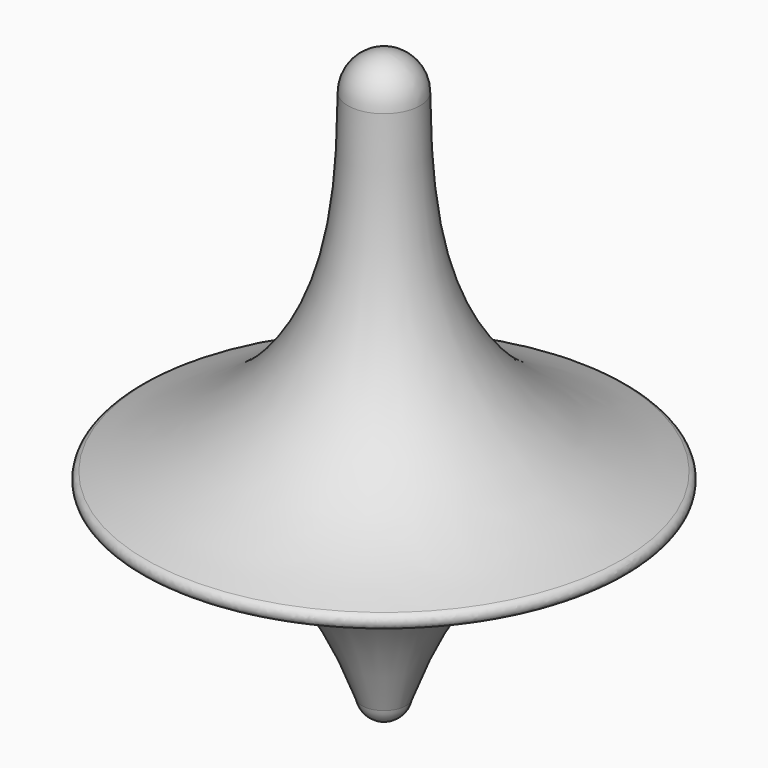
from build123d import *

# Parameters (mm, degrees)
F2_R = 0.635


with BuildPart() as f1:
    # F0 (on Front) → F1 (revolve)
    with BuildSketch(Plane.XZ):
        with BuildLine():
            add(Edge.make_bspline(
                [(3.1117998296, 29.7843702137), (3.17367465, 24.1463146015), (3.7584596413, 11.2580953634), (13.9445057139, 2.4288133718), (24.2981817573, 0)],
                knots=[0, 0, 0, 0, 0.4635620181, 1, 1, 1, 1], degree=3))
            ThreePointArc((3.1117998296, 29.7843702137), (2.2003747612, 31.984744975), (0, 32.8961700434))
            Line((0, 32.8961700434), (0, -17.6642231424))
            ThreePointArc((0, -17.6642231424), (1.2403549088, -17.2120857901), (1.8987779369, -16.0678010347))
            add(Edge.make_bspline(
                [(24.2981817573, 0), (16.1631479859, 0), (7.3337574674, -3.6745723956), (3.3364535914, -12.0117355034), (1.8987779369, -16.0678010347)],
                knots=[0, 0, 0, 0, 0.5406695092, 1, 1, 1, 1], degree=3))
        make_face()
    revolve(axis=Axis((0, 0, 11.5843461826), (0, 0, -1)))

    # F2
    f2_edges = [f1.edges().sort_by_distance(p)[0] for p in [
        (-24.298182, 0, 0),
    ]]
    fillet(f2_edges, radius=F2_R)


solid = f1.part
